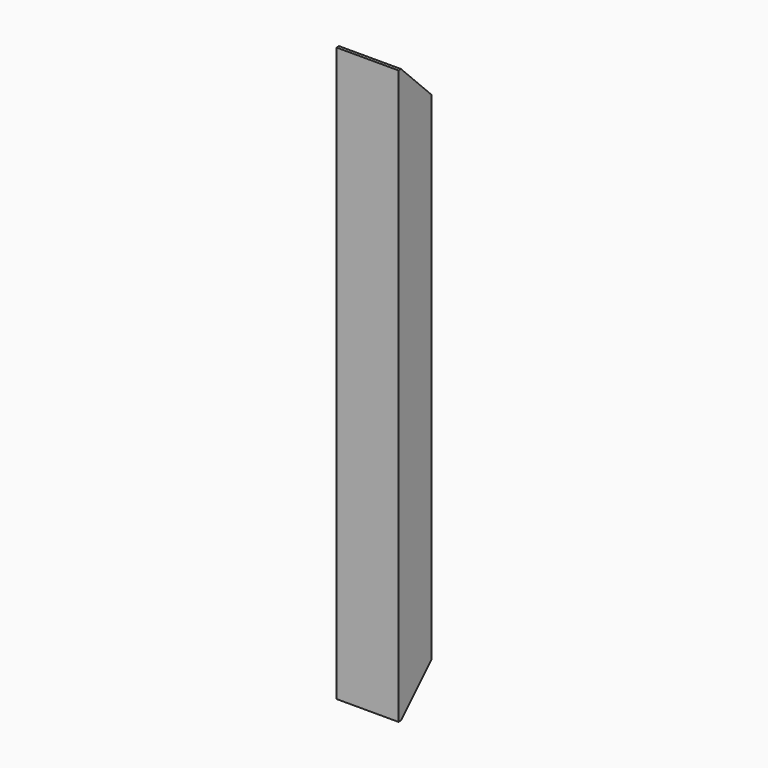
from build123d import *

# Parameters (mm, degrees)
F0_W     = 60
F0_H     = 40
F0_W_2   = 54
F0_H_2   = 34
F1_DEPTH = 555
F3_DEPTH = 60
F4_DEPTH = 60


with BuildPart() as f1:
    # F0 (on Top) → F1 (new body)
    with BuildSketch(Plane.XY):
        Rectangle(F0_W, F0_H)
        Rectangle(F0_W_2, F0_H_2, mode=Mode.SUBTRACT)
    extrude(amount=F1_DEPTH)

    # F2 (on face) → F3 (cut)
    with BuildSketch(Plane.YZ.offset(30)):
        Polygon((20, 555), (-17, 555), (20, 518), align=None)
        Polygon((-17, 0), (20, 0), (20, 37), align=None)
        Polygon((20, 555), (-17, 555), (20, 518), align=None)
    extrude(amount=-F3_DEPTH, mode=Mode.SUBTRACT)

    # F2 (on face) → F4 (cut)
    with BuildSketch(Plane.YZ.offset(30)):
        Polygon((20, 0), (20, 37), (-17, 0), align=None)
    extrude(amount=-F4_DEPTH, mode=Mode.SUBTRACT)


solid = f1.part
